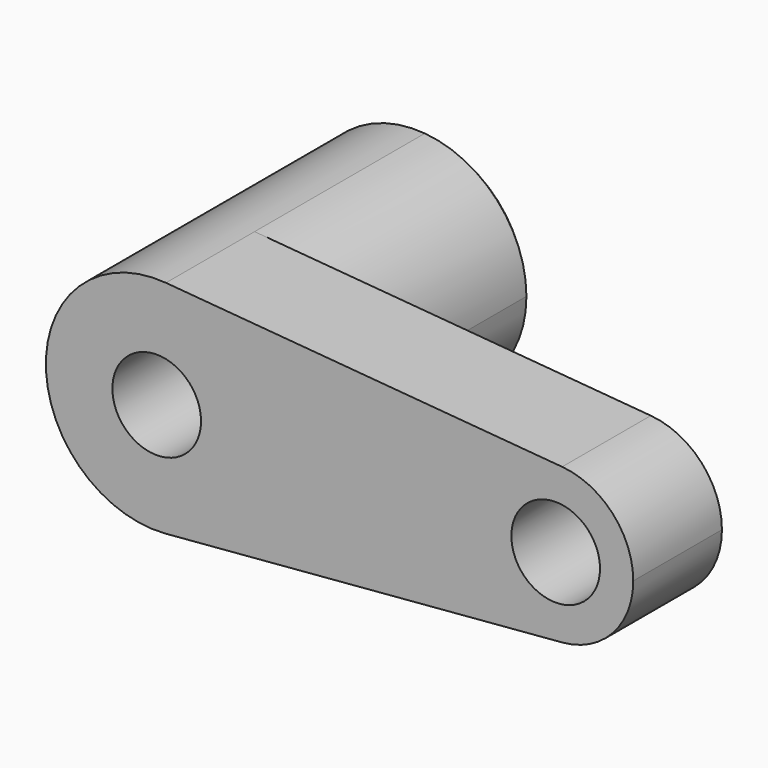
from build123d import *

# Parameters (mm, degrees)
F0_R     = 10
F1_DEPTH = 25
F2_DEPTH = 50
F3_SIZE  = 2


with BuildPart() as f1:
    # F0 (on Front) → F1 (new body)
    with BuildSketch(Plane.XZ):
        with BuildLine():
            ThreePointArc((2.083333, -24.913043), (18.399502, -16.92508), (25, 0))
            ThreePointArc((25, 0), (18.399502, 16.92508), (2.083333, 24.913043))
            ThreePointArc((2.083333, 24.913043), (-25, 0), (2.083333, -24.913043))
        make_face()
        Circle(F0_R, mode=Mode.SUBTRACT)
        with BuildLine():
            ThreePointArc((2.083333, 24.913043), (18.399502, 16.92508), (25, 0))
            ThreePointArc((25, 0), (18.399502, -16.92508), (2.083333, -24.913043))
            Line((2.083333, -24.913043), (91.458333, -17.43913))
            ThreePointArc((91.458333, -17.43913), (72.5, 0), (91.458333, 17.43913))
            Line((91.458333, 17.43913), (2.083333, 24.913043))
        make_face()
        with BuildLine():
            ThreePointArc((107.5, 0), (102.879651, 11.847556), (91.458333, 17.43913))
            ThreePointArc((91.458333, 17.43913), (72.5, 0), (91.458333, -17.43913))
            ThreePointArc((91.458333, -17.43913), (102.879651, -11.847556), (107.5, 0))
        make_face()
        with Locations((90, 0)):
            Circle(F0_R, mode=Mode.SUBTRACT)
    extrude(amount=F1_DEPTH)

    # F0 (on Front) → F2 (join)
    with BuildSketch(Plane.XZ):
        with BuildLine():
            ThreePointArc((2.083333, -24.913043), (18.399502, -16.92508), (25, 0))
            ThreePointArc((25, 0), (18.399502, 16.92508), (2.083333, 24.913043))
            ThreePointArc((2.083333, 24.913043), (-25, 0), (2.083333, -24.913043))
        make_face()
        Circle(F0_R, mode=Mode.SUBTRACT)
    extrude(amount=-F2_DEPTH)

    # F3
    f3_edges = [f1.edges().sort_by_distance(p)[0] for p in [
        (-10, 50, 0),
        (-2.083333, 50, 24.913043),
        (80, 0, 0),
    ]]
    chamfer(f3_edges, length=F3_SIZE)


solid = f1.part
